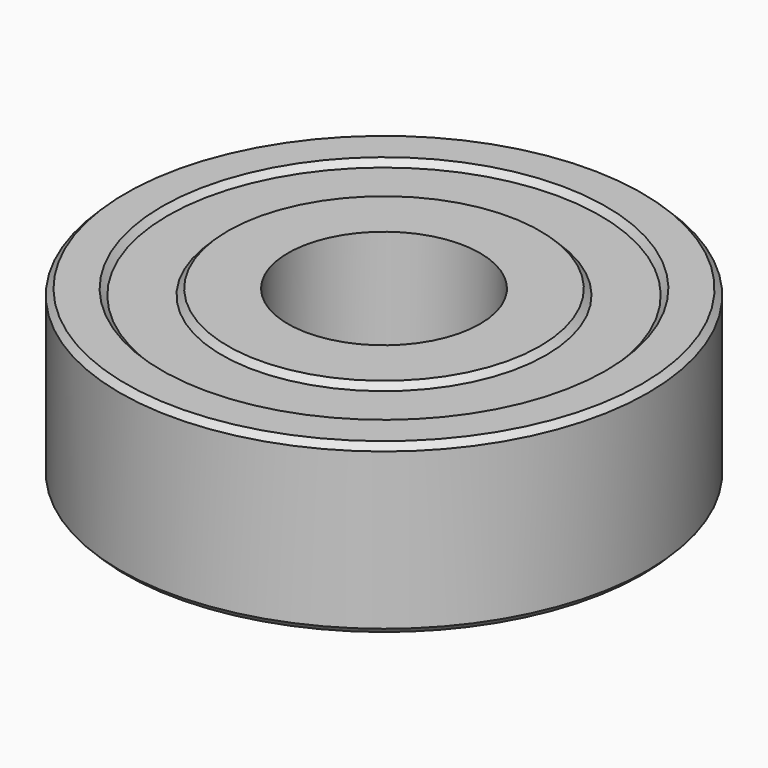
from build123d import *

# Parameters (mm, degrees)
CHAMFER_SIZE = 0.25


with BuildPart() as part:
    # Sketch001 → Revolution (revolve)
    with BuildSketch(Plane.XZ):
        Polygon((4, -3.5), (6.5, -3.5), (6.75, -3.25), (9, -3.25), (9.25, -3.5), (11, -3.5), (11, 3.5), (9.25, 3.5), (9, 3.25), (6.75, 3.25), (6.5, 3.5), (4, 3.5), align=None)
    revolve(axis=Axis((0, 0, 0), (0, 0, 1)))

    # Chamfer
    chamfer_edges = [part.edges().sort_by_distance(p)[0] for p in [
        (-11, 0, 3.5),
        (-11, 0, -3.5),
    ]]
    chamfer(chamfer_edges, length=CHAMFER_SIZE)


solid = part.part
